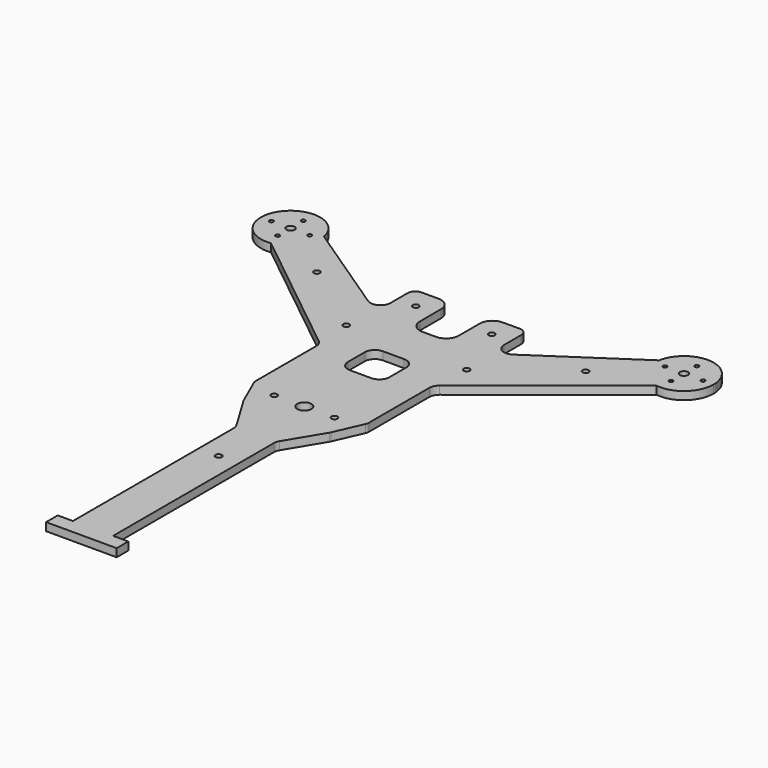
from build123d import *

# Parameters (mm, degrees)
F0_R     = 1.5
F0_R_2   = 3.5
F0_R_3   = 1
F0_R_4   = 2.0426148112
F1_DEPTH = 4


with BuildPart() as f1:
    # F0 (on Top) → F1 (new body)
    with BuildSketch(Plane.XY):
        with BuildLine():
            Line((28.2485083335, 43.9163537211), (28.2485083335, 54.5580207216))
            ThreePointArc((28.2485083335, 54.5580207216), (27.1525007025, 57.2380411405), (24.4926270097, 58.38207528))
            Line((24.4926270097, 58.38207528), (15.9756345674, 58.38207528))
            ThreePointArc((15.9756345674, 58.38207528), (11.5015417116, 56.5288453398), (9.6483117715, 52.054752484))
            Line((9.6483117715, 52.054752484), (9.6483117715, 39.0478140861))
            ThreePointArc((9.6483117715, 39.0478140861), (7.7950818313, 34.5737212303), (3.3209889755, 32.7204912901))
            Line((3.3209889755, 32.7204912901), (0, 32.7204912901))
            Line((0, 32.7204912901), (-3.3209889755, 32.7204912901))
            ThreePointArc((-3.3209889755, 32.7204912901), (-7.7950818313, 34.5737212303), (-9.6483117715, 39.0478140861))
            Line((-9.6483117715, 39.0478140861), (-9.6483117715, 52.054752484))
            ThreePointArc((-9.6483117715, 52.054752484), (-11.5015417116, 56.5288453398), (-15.9756345674, 58.38207528))
            Line((-15.9756345674, 58.38207528), (-24.4926270097, 58.38207528))
            ThreePointArc((-24.4926270097, 58.38207528), (-27.1525007025, 57.2380411405), (-28.2485083335, 54.5580207216))
            Line((-28.2485083335, 54.5580207216), (-28.2485083335, 43.9163537211))
            ThreePointArc((-28.2485083335, 43.9163537211), (-30.8923065557, 39.5063295508), (-36.0278336063, 39.759991005))
            Line((-36.0278336063, 39.759991005), (-83.3553595539, 71.4075150422))
            ThreePointArc((-83.3553595539, 71.4075150422), (-83.1773407039, 70.0948228733), (-83.1178410423, 68.7714517117))
            ThreePointArc((-83.1178410423, 68.7714517117), (-86.7609350808, 59.0670533301), (-95.8902072963, 54.1574840073))
            Line((-95.8902072963, 54.1574840073), (-30.0196265199, 1.5012365572))
            ThreePointArc((-30.0196265199, 1.5012365572), (-28.6355347687, -0.2374876701), (-28.1416475773, -2.4042703903))
            Line((-28.1416475773, -2.4042703903), (-28.1416475773, -40))
            ThreePointArc((-28.1416475773, -40), (-28.0556598352, -40.8267401557), (-27.8013775488, -41.6180894438))
            Line((-27.8013775488, -41.6180894438), (-21.7254169173, -55.4257667582))
            ThreePointArc((-21.7254169173, -55.4257667582), (-21.5878462389, -55.7131878969), (-21.4322469923, -55.9912624857))
            Line((-21.4322469923, -55.9912624857), (-10.7166659506, -73.7858242134))
            ThreePointArc((-10.7166659506, -73.7858242134), (-10.1824970033, -75.0266439297), (-10, -76.3651747946))
            Line((-10, -76.3651747946), (-10, -176.3651747946))
            Line((-10, -176.3651747946), (-17.5625588745, -176.3651747946))
            Line((-17.5625588745, -176.3651747946), (-17.5625588745, -183.6033910513))
            Line((-17.5625588745, -183.6033910513), (0, -183.6033910513))
            Line((0, -183.6033910513), (17.5625588745, -183.6033910513))
            Line((17.5625588745, -183.6033910513), (17.5625588745, -176.3651747946))
            Line((17.5625588745, -176.3651747946), (10, -176.3651747946))
            Line((10, -176.3651747946), (10, -76.3651747946))
            ThreePointArc((10, -76.3651747946), (10.1824970033, -75.0266439297), (10.7166659506, -73.7858242134))
            Line((10.7166659506, -73.7858242134), (21.4322469923, -55.9912624857))
            ThreePointArc((21.4322469923, -55.9912624857), (21.5878462389, -55.7131878969), (21.7254169173, -55.4257667582))
            Line((21.7254169173, -55.4257667582), (27.8013775488, -41.6180894438))
            ThreePointArc((27.8013775488, -41.6180894438), (28.0556598352, -40.8267401557), (28.1416475773, -40))
            Line((28.1416475773, -40), (28.1416475773, -2.4042703903))
            ThreePointArc((28.1416475773, -2.4042703903), (28.6355347687, -0.2374876701), (30.0196265199, 1.5012365572))
            Line((30.0196265199, 1.5012365572), (95.8902072963, 54.1574840073))
            ThreePointArc((95.8902072963, 54.1574840073), (85.9348635201, 60.1026484333), (83.3553595539, 71.4075150422))
            Line((83.3553595539, 71.4075150422), (36.0278336063, 39.759991005))
            ThreePointArc((36.0278336063, 39.759991005), (30.8923065557, 39.5063295508), (28.2485083335, 43.9163537211))
        make_face()
        with BuildLine():
            ThreePointArc((0, -96.7485921342), (1.1190603643, -97.1534205019), (1.5911210664, -98.2458218932))
            ThreePointArc((1.5911210664, -98.2458218932), (1.1190603643, -99.3382232845), (0, -99.7430516522))
            ThreePointArc((0, -99.7430516522), (-1.5911210664, -98.2458218932), (0, -96.7485921342))
        make_face(mode=Mode.SUBTRACT)
        with Locations((-15, -44.9954515789)):
            Circle(F0_R, mode=Mode.SUBTRACT)
        with Locations((-66.8339952826, 46.3828593493)):
            Circle(F0_R, mode=Mode.SUBTRACT)
        with Locations((-29.9585536122, 18.5773223639)):
            Circle(F0_R, mode=Mode.SUBTRACT)
        with Locations((-18.9252551645, 47.9994341731)):
            Circle(F0_R, mode=Mode.SUBTRACT)
        with Locations((0, -44.9723601341)):
            Circle(F0_R_2, mode=Mode.SUBTRACT)
        with Locations((15, -44.9954515789)):
            Circle(F0_R, mode=Mode.SUBTRACT)
        with BuildLine():
            ThreePointArc((-10.1997302845, 5.3493127972), (-8.7352641904, 8.8848467031), (-5.1997302845, 10.3493127972))
            Line((-5.1997302845, 10.3493127972), (5.4373050854, 10.3493127972))
            ThreePointArc((5.4373050854, 10.3493127972), (8.9728389913, 8.8848467031), (10.4373050854, 5.3493127972))
            Line((10.4373050854, 5.3493127972), (10.4373050854, -5.1066948846))
            ThreePointArc((10.4373050854, -5.1066948846), (8.9728389913, -8.6422287905), (5.4373050854, -10.1066948846))
            Line((5.4373050854, -10.1066948846), (-5.1997302845, -10.1066948846))
            ThreePointArc((-5.1997302845, -10.1066948846), (-8.7352641904, -8.6422287905), (-10.1997302845, -5.1066948846))
            Line((-10.1997302845, -5.1066948846), (-10.1997302845, 5.3493127972))
        make_face(mode=Mode.SUBTRACT)
        with Locations((18.9252551645, 47.9994341731)):
            Circle(F0_R, mode=Mode.SUBTRACT)
        with Locations((29.9585536122, 18.5773223639)):
            Circle(F0_R, mode=Mode.SUBTRACT)
        with Locations((66.8339952826, 46.3828593493)):
            Circle(F0_R, mode=Mode.SUBTRACT)
        with BuildLine():
            ThreePointArc((112.4534682434, 70.9232873205), (98.1099452114, 83.5161448719), (83.3553595539, 71.4075150422))
            Line((83.3553595539, 71.4075150422), (98.6924420624, 81.6632949003))
            ThreePointArc((98.6924420624, 81.6632949003), (102.2363175022, 82.4481327511), (105.3772742827, 80.6289532416))
            Line((105.3772742827, 80.6289532416), (111.4671739885, 73.0107645192))
            ThreePointArc((111.4671739885, 73.0107645192), (112.0824576726, 72.0247331774), (112.4534682434, 70.9232873205))
        make_face()
        with BuildLine():
            Line((98.6924420624, 81.6632949003), (83.3553595539, 71.4075150422))
            ThreePointArc((83.3553595539, 71.4075150422), (85.9348635201, 60.1026484333), (95.8902072963, 54.1574840073))
            Line((95.8902072963, 54.1574840073), (110.6836880983, 65.9832365143))
            ThreePointArc((110.6836880983, 65.9832365143), (112.0902955562, 67.7694219265), (112.5605632629, 69.9937985024))
            ThreePointArc((112.5605632629, 69.9937985024), (112.514389285, 70.4593924844), (112.4534682434, 70.9232873205))
            ThreePointArc((112.4534682434, 70.9232873205), (112.0824576726, 72.0247331774), (111.4671739885, 73.0107645192))
            Line((111.4671739885, 73.0107645192), (105.3772742827, 80.6289532416))
            ThreePointArc((105.3772742827, 80.6289532416), (102.2363175022, 82.4481327511), (98.6924420624, 81.6632949003))
        make_face()
        with Locations((97.8645756841, 60.7714517117)):
            Circle(F0_R_3, mode=Mode.SUBTRACT)
        with Locations((88.3645756841, 68.7714517117)):
            Circle(F0_R_3, mode=Mode.SUBTRACT)
        with Locations((97.8645756841, 68.7714517117)):
            Circle(F0_R_4, mode=Mode.SUBTRACT)
        with Locations((97.8645756841, 76.7714517117)):
            Circle(F0_R_3, mode=Mode.SUBTRACT)
        with Locations((107.3645756841, 68.7714517117)):
            Circle(F0_R_3, mode=Mode.SUBTRACT)
        with BuildLine():
            ThreePointArc((112.5605632629, 69.9937985024), (112.5288051758, 70.4610534728), (112.4534682434, 70.9232873205))
            ThreePointArc((112.4534682434, 70.9232873205), (112.514389285, 70.4593924844), (112.5605632629, 69.9937985024))
        make_face()
        with BuildLine():
            Line((110.6836880983, 65.9832365143), (95.8902072963, 54.1574840073))
            ThreePointArc((95.8902072963, 54.1574840073), (107.5689740656, 57.6678111084), (112.6113103258, 68.7714517117))
            ThreePointArc((112.6113103258, 68.7714517117), (112.5986180981, 69.3831515852), (112.5605632629, 69.9937985024))
            ThreePointArc((112.5605632629, 69.9937985024), (112.0902955562, 67.7694219265), (110.6836880983, 65.9832365143))
        make_face()
        with BuildLine():
            ThreePointArc((-83.1178410423, 68.7714517117), (-83.1773407039, 70.0948228733), (-83.3553595539, 71.4075150422))
            Line((-83.3553595539, 71.4075150422), (-98.6924420624, 81.6632949003))
            ThreePointArc((-98.6924420624, 81.6632949003), (-102.2363175022, 82.4481327511), (-105.3772742827, 80.6289532416))
            Line((-105.3772742827, 80.6289532416), (-111.4671739885, 73.0107645192))
            ThreePointArc((-111.4671739885, 73.0107645192), (-112.0824576726, 72.0247331774), (-112.4534682434, 70.9232873205))
            ThreePointArc((-112.4534682434, 70.9232873205), (-112.514389285, 70.4593924844), (-112.5605632629, 69.9937985024))
            ThreePointArc((-112.5605632629, 69.9937985024), (-112.0902955562, 67.7694219265), (-110.6836880983, 65.9832365143))
            Line((-110.6836880983, 65.9832365143), (-95.8902072963, 54.1574840073))
            ThreePointArc((-95.8902072963, 54.1574840073), (-86.7609350808, 59.0670533301), (-83.1178410423, 68.7714517117))
        make_face()
        with Locations((-97.8645756841, 60.7714517117)):
            Circle(F0_R_3, mode=Mode.SUBTRACT)
        with Locations((-107.3645756841, 68.7714517117)):
            Circle(F0_R_3, mode=Mode.SUBTRACT)
        with Locations((-97.8645756841, 68.7714517117)):
            Circle(F0_R_4, mode=Mode.SUBTRACT)
        with Locations((-88.3645756841, 68.7714517117)):
            Circle(F0_R_3, mode=Mode.SUBTRACT)
        with Locations((-97.8645756841, 76.7714517117)):
            Circle(F0_R_3, mode=Mode.SUBTRACT)
        with BuildLine():
            Line((-98.6924420624, 81.6632949003), (-83.3553595539, 71.4075150422))
            ThreePointArc((-83.3553595539, 71.4075150422), (-98.1099452114, 83.5161448719), (-112.4534682434, 70.9232873205))
            ThreePointArc((-112.4534682434, 70.9232873205), (-112.0824576726, 72.0247331774), (-111.4671739885, 73.0107645192))
            Line((-111.4671739885, 73.0107645192), (-105.3772742827, 80.6289532416))
            ThreePointArc((-105.3772742827, 80.6289532416), (-102.2363175022, 82.4481327511), (-98.6924420624, 81.6632949003))
        make_face()
        with BuildLine():
            ThreePointArc((-112.5605632629, 69.9937985024), (-112.514389285, 70.4593924844), (-112.4534682434, 70.9232873205))
            ThreePointArc((-112.4534682434, 70.9232873205), (-112.5288051758, 70.4610534728), (-112.5605632629, 69.9937985024))
        make_face()
        with BuildLine():
            ThreePointArc((-112.5605632629, 69.9937985024), (-108.0212046971, 58.0799097421), (-95.8902072963, 54.1574840073))
            Line((-95.8902072963, 54.1574840073), (-110.6836880983, 65.9832365143))
            ThreePointArc((-110.6836880983, 65.9832365143), (-112.0902955562, 67.7694219265), (-112.5605632629, 69.9937985024))
        make_face()
    extrude(amount=F1_DEPTH)


solid = f1.part
